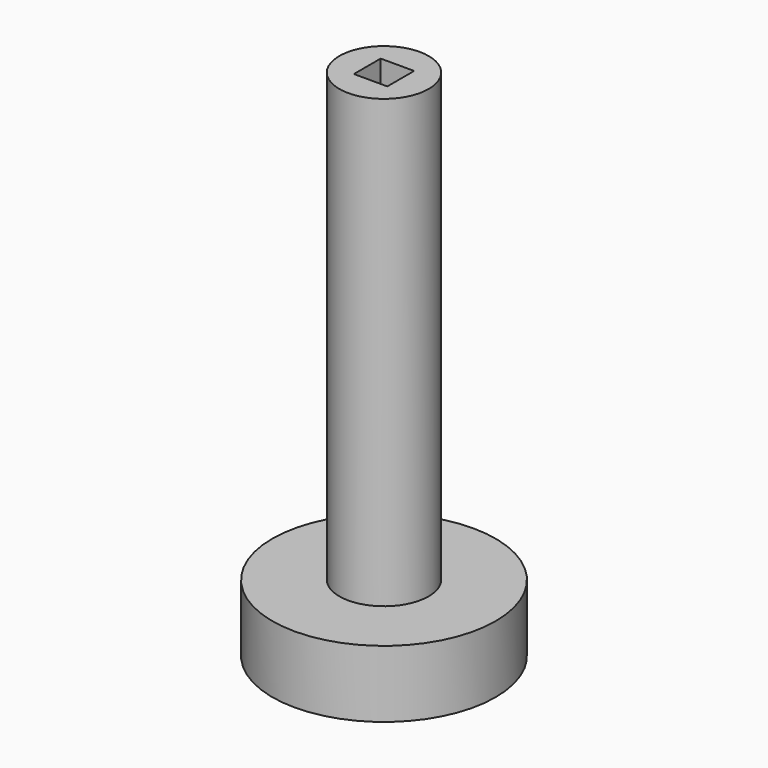
from build123d import *

# Parameters (mm, degrees)
F0_R     = 10
F1_DEPTH = 6
F2_R     = 4
F3_DEPTH = 40
F4_W     = 3
F4_H     = 3
F5_DEPTH = 5


with BuildPart() as f1:
    # F0 (on Top) → F1 (new body)
    with BuildSketch(Plane.XY):
        Circle(F0_R)
    extrude(amount=F1_DEPTH)

    # F2 (on face) → F3 (join)
    with BuildSketch(Plane.XY.offset(6)):
        Circle(F2_R)
    extrude(amount=F3_DEPTH)

    # F4 (on face) → F5 (cut)
    with BuildSketch(Plane.XY.offset(46)):
        Rectangle(F4_W, F4_H)
    extrude(amount=-F5_DEPTH, mode=Mode.SUBTRACT)


solid = f1.part
